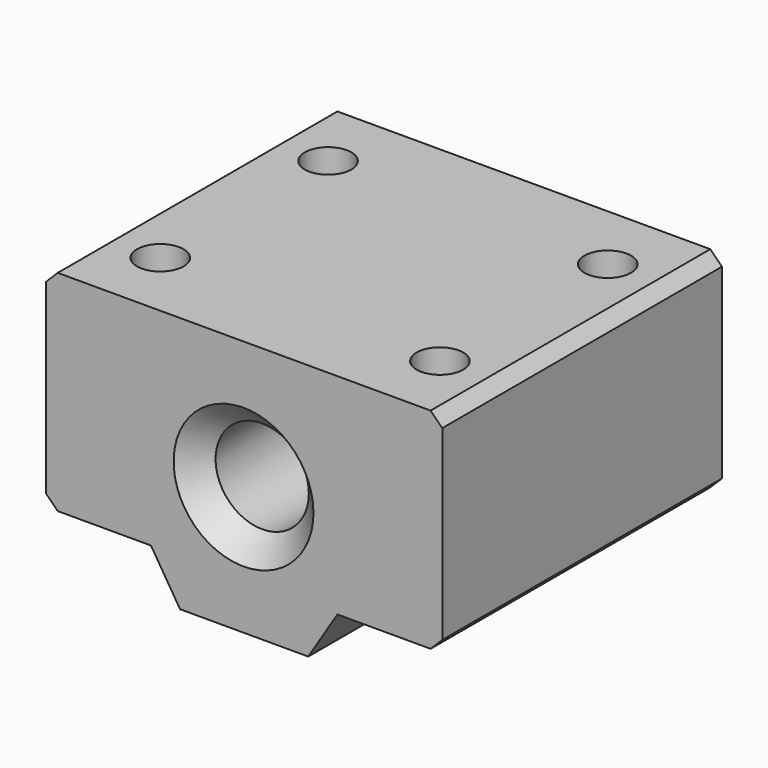
from build123d import *

# Parameters (mm, degrees)
F0_R     = 4
F1_DEPTH = 30
F2_SIZE  = 2
F3_SIZE  = 1
F4_R     = 2
F5_DEPTH = 25


with BuildPart() as f1:
    # F0 (on Front) → F1 (new body)
    with BuildSketch(Plane.XZ):
        Polygon((-12.461195, 38.328968), (-46.461195, 38.328968), (-46.461195, 20.328968), (-37.461195, 20.328968), (-34.961195, 16.328968), (-23.961195, 16.328968), (-21.461195, 20.328968), (-12.461195, 20.328968), align=None)
        with Locations((-29.514153, 27.328968)):
            Circle(F0_R, mode=Mode.SUBTRACT)
    extrude(amount=F1_DEPTH)

    # F2
    f2_edges = [f1.edges().sort_by_distance(p)[0] for p in [
        (-33.514153, -30, 27.328968),
        (-33.514153, 0, 27.328968),
    ]]
    chamfer(f2_edges, length=F2_SIZE)

    # F3
    f3_edges = [f1.edges().sort_by_distance(p)[0] for p in [
        (-46.461195, -15, 38.328968),
        (-12.461195, -15, 38.328968),
        (-12.461195, -15, 20.328968),
        (-46.461195, -15, 20.328968),
    ]]
    chamfer(f3_edges, length=F3_SIZE)

    # F4 (on face) → F5 (cut)
    with BuildSketch(Plane.XY.offset(38.328968)):
        with Locations((-41.461195, -6)):
            Circle(F4_R)
        with Locations((-41.461195, -24)):
            Circle(F4_R)
        with Locations((-17.461195, -24)):
            Circle(F4_R)
        with Locations((-17.461195, -6)):
            Circle(F4_R)
    extrude(amount=-F5_DEPTH, mode=Mode.SUBTRACT)


solid = f1.part
